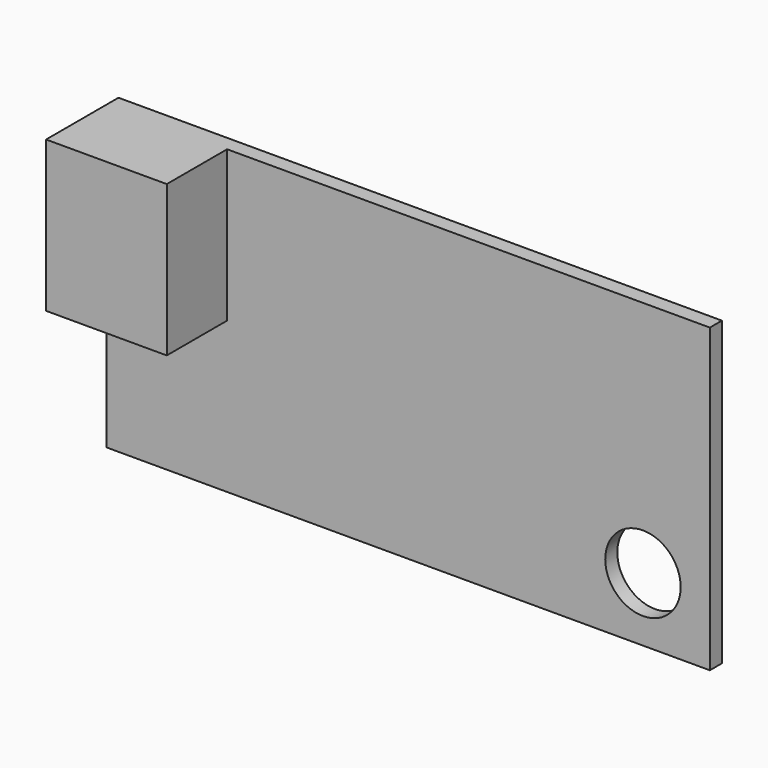
from build123d import *

# Parameters (mm, degrees)
F0_W     = 200
F0_H     = 100
F1_DEPTH = 5
F2_W     = 40
F2_H     = 50
F3_DEPTH = 25
F5_D     = 25


with BuildPart() as f1:
    # F0 (on Front) → F1 (new body)
    with BuildSketch(Plane.XZ):
        with Locations((0.7813461125, 2.7280557753)):
            Rectangle(F0_W, F0_H)
    extrude(amount=F1_DEPTH)

    # F2 (on face) → F3 (join)
    with BuildSketch(Plane.XZ.offset(5)):
        with Locations((-79.2186538875, 27.7280557753)):
            Rectangle(F2_W, F2_H)
    extrude(amount=F3_DEPTH)

    # F5 (through all)
    with Locations(Plane.XZ.offset(5)):
        with Locations((78.6084979773, -26.1474624276)):
            Hole(F5_D / 2)


solid = f1.part
